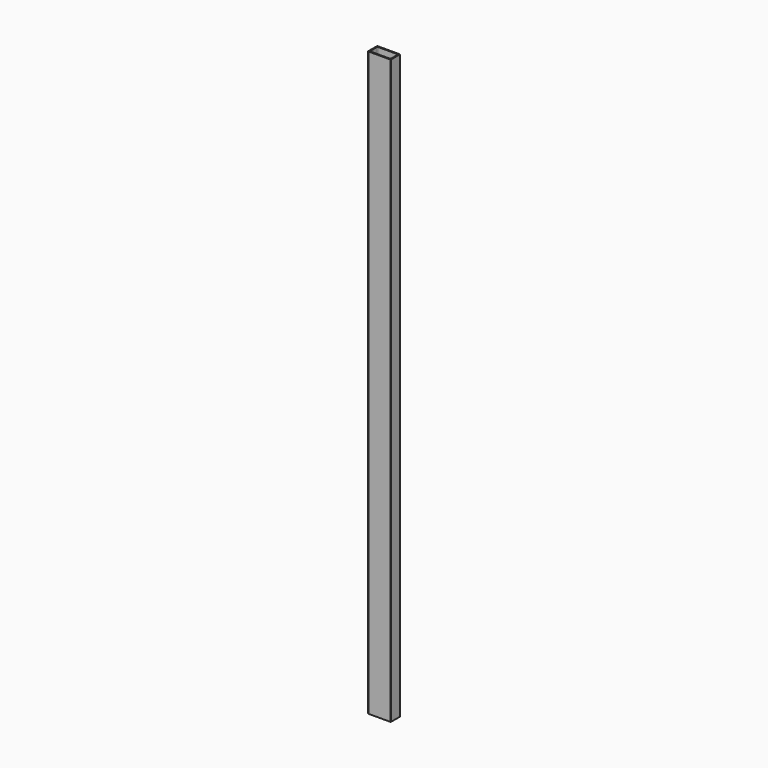
from build123d import *

# Parameters (mm, degrees)
F1_DEPTH = 2565


with BuildPart() as f1:
    # F0 (on Top) → F1 (new body)
    with BuildSketch(Plane.XY):
        with BuildLine():
            Line((-48, -25.5), (48, -25.5))
            ThreePointArc((48, -25.5), (49.414214, -24.914214), (50, -23.5))
            Line((50, -23.5), (50, 23.5))
            ThreePointArc((50, 23.5), (49.414214, 24.914214), (48, 25.5))
            Line((48, 25.5), (-48, 25.5))
            ThreePointArc((-48, 25.5), (-49.414214, 24.914214), (-50, 23.5))
            Line((-50, 23.5), (-50, -23.5))
            ThreePointArc((-50, -23.5), (-49.414214, -24.914214), (-48, -25.5))
        make_face()
        with BuildLine():
            Line((-43.5, 21), (43.5, 21))
            ThreePointArc((43.5, 21), (44.914214, 20.414214), (45.5, 19))
            Line((45.5, 19), (45.5, -19))
            ThreePointArc((45.5, -19), (44.914214, -20.414214), (43.5, -21))
            Line((43.5, -21), (-43.5, -21))
            ThreePointArc((-43.5, -21), (-44.914214, -20.414214), (-45.5, -19))
            Line((-45.5, -19), (-45.5, 19))
            ThreePointArc((-45.5, 19), (-44.914214, 20.414214), (-43.5, 21))
        make_face(mode=Mode.SUBTRACT)
    extrude(amount=F1_DEPTH)


solid = f1.part
